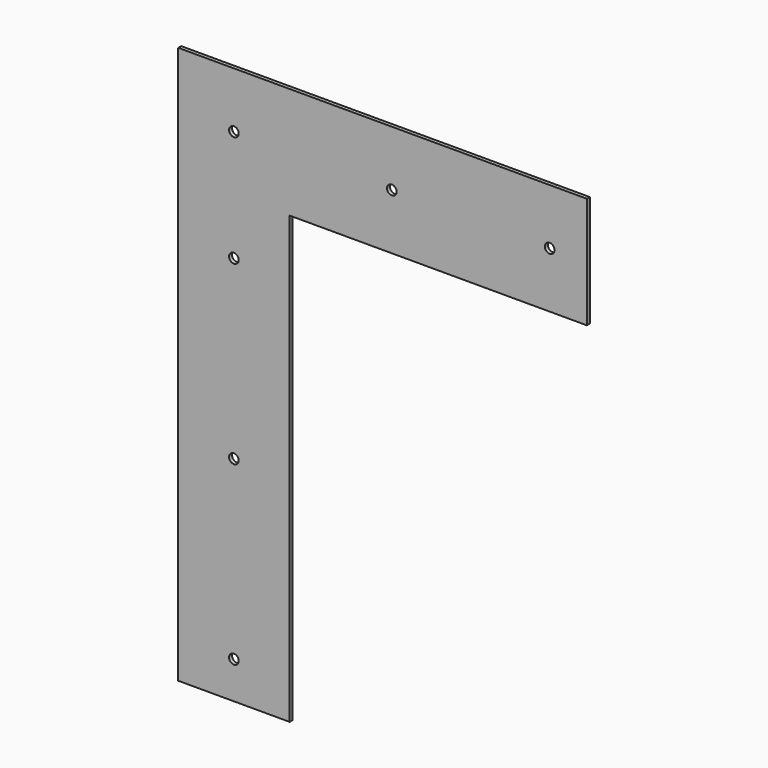
from build123d import *

# Parameters (mm, degrees)
F0_R     = 6.5
F1_DEPTH = 5


with BuildPart() as f1:
    # F0 (on Front) → F1 (new body)
    with BuildSketch(Plane.XZ):
        Polygon((0, 750), (0, 0), (150, 0), (150, 600), (550, 600), (550, 750), align=None)
        with Locations((75, 50)):
            Circle(F0_R, mode=Mode.SUBTRACT)
        with Locations((75, 287.5)):
            Circle(F0_R, mode=Mode.SUBTRACT)
        with Locations((75, 525)):
            Circle(F0_R, mode=Mode.SUBTRACT)
        with Locations((75, 675)):
            Circle(F0_R, mode=Mode.SUBTRACT)
        with Locations((287.5, 675)):
            Circle(F0_R, mode=Mode.SUBTRACT)
        with Locations((500, 675)):
            Circle(F0_R, mode=Mode.SUBTRACT)
    extrude(amount=F1_DEPTH)


solid = f1.part
